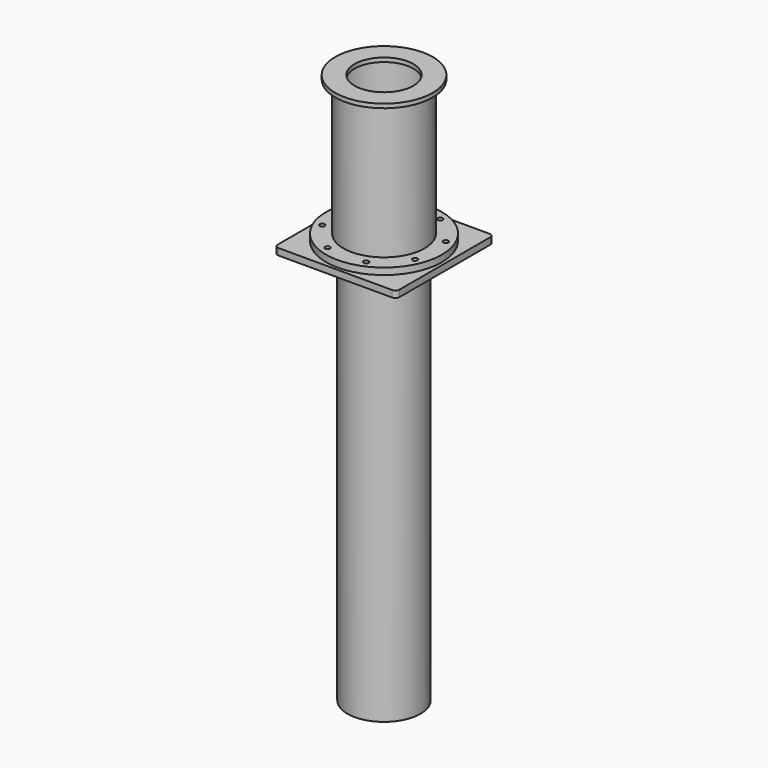
from build123d import *

# Parameters (mm, degrees)
F0_W          = 762
F0_H          = 762
F0_R          = 15.875
F0_R_2        = 228.6
F1_DEPTH      = 41.402
F2_R          = 228.6
F2_R_2        = 219.075
F3_DEPTH      = 2489.2
F3_DEPTH_BACK = 41.402
F4_R          = 228.6
F5_DEPTH      = 25.4
F6_R          = 25.4
F7_R          = 361.95
F7_R_2        = 15.875
F7_R_3        = 254
F8_DEPTH      = 41.402
F9_R          = 254
F9_R_2        = 241.3
F10_DEPTH     = 914.4
F11_R         = 304.8
F11_R_2       = 184.15
F12_DEPTH     = 25.4


with BuildPart() as f1:
    # F0 (on Top) → F1 (new body)
    with BuildSketch(Plane.XY):
        Rectangle(F0_W, F0_H)
        with Locations((-120.28697, -290.398434)):
            Circle(F0_R, mode=Mode.SUBTRACT)
        with Locations((-290.398434, -120.28697)):
            Circle(F0_R, mode=Mode.SUBTRACT)
        with Locations((120.28697, -290.398434)):
            Circle(F0_R, mode=Mode.SUBTRACT)
        with Locations((290.398434, -120.28697)):
            Circle(F0_R, mode=Mode.SUBTRACT)
        with Locations((-290.398434, 120.28697)):
            Circle(F0_R, mode=Mode.SUBTRACT)
        with Locations((-120.28697, 290.398434)):
            Circle(F0_R, mode=Mode.SUBTRACT)
        Circle(F0_R_2, mode=Mode.SUBTRACT)
        with Locations((290.398434, 120.28697)):
            Circle(F0_R, mode=Mode.SUBTRACT)
        with Locations((120.28697, 290.398434)):
            Circle(F0_R, mode=Mode.SUBTRACT)
    extrude(amount=-F1_DEPTH)

    # F2 (on face) → F3 (join, two sides)
    with BuildSketch(Plane(origin=(0, 0, -41.402), x_dir=(1, 0, 0), z_dir=(0, 0, -1))) as f3_sk:
        Circle(F2_R)
        Circle(F2_R_2, mode=Mode.SUBTRACT)
    extrude(amount=F3_DEPTH)
    extrude(f3_sk.sketch, amount=-F3_DEPTH_BACK)

    # F4 (on face) → F5 (join)
    with BuildSketch(Plane(origin=(0, 0, -2530.602), x_dir=(1, 0, 0), z_dir=(0, 0, -1))):
        Circle(F4_R)
    extrude(amount=-F5_DEPTH)

    # F6
    f6_edges = [f1.edges().sort_by_distance(p)[0] for p in [
        (381, -381, -20.701),
        (381, 381, -20.701),
        (-381, -381, -20.701),
        (-381, 381, -20.701),
    ]]
    fillet(f6_edges, radius=F6_R)


with BuildPart() as f8:
    # F7 (on face) → F8 (new body)
    with BuildSketch(Plane.XY):
        Circle(F7_R)
        with Locations((-120.28697, -290.398434)):
            Circle(F7_R_2, mode=Mode.SUBTRACT)
        with Locations((-290.398434, -120.28697)):
            Circle(F7_R_2, mode=Mode.SUBTRACT)
        with Locations((120.28697, -290.398434)):
            Circle(F7_R_2, mode=Mode.SUBTRACT)
        with Locations((290.398434, -120.28697)):
            Circle(F7_R_2, mode=Mode.SUBTRACT)
        with Locations((-290.398434, 120.28697)):
            Circle(F7_R_2, mode=Mode.SUBTRACT)
        with Locations((-120.28697, 290.398434)):
            Circle(F7_R_2, mode=Mode.SUBTRACT)
        Circle(F7_R_3, mode=Mode.SUBTRACT)
        with Locations((290.398434, 120.28697)):
            Circle(F7_R_2, mode=Mode.SUBTRACT)
        with Locations((120.28697, 290.398434)):
            Circle(F7_R_2, mode=Mode.SUBTRACT)
    extrude(amount=F8_DEPTH)


with BuildPart() as f10:
    # F9 (on face) → F10 (new body)
    with BuildSketch(Plane.XY):
        Circle(F9_R)
        Circle(F9_R_2, mode=Mode.SUBTRACT)
    extrude(amount=F10_DEPTH)

    # F11 (on face) → F12 (join)
    with BuildSketch(Plane.XY.offset(914.4)):
        Circle(F11_R)
        Circle(F11_R_2, mode=Mode.SUBTRACT)
    extrude(amount=-F12_DEPTH)


solid = Compound([f1.part, f8.part, f10.part])
